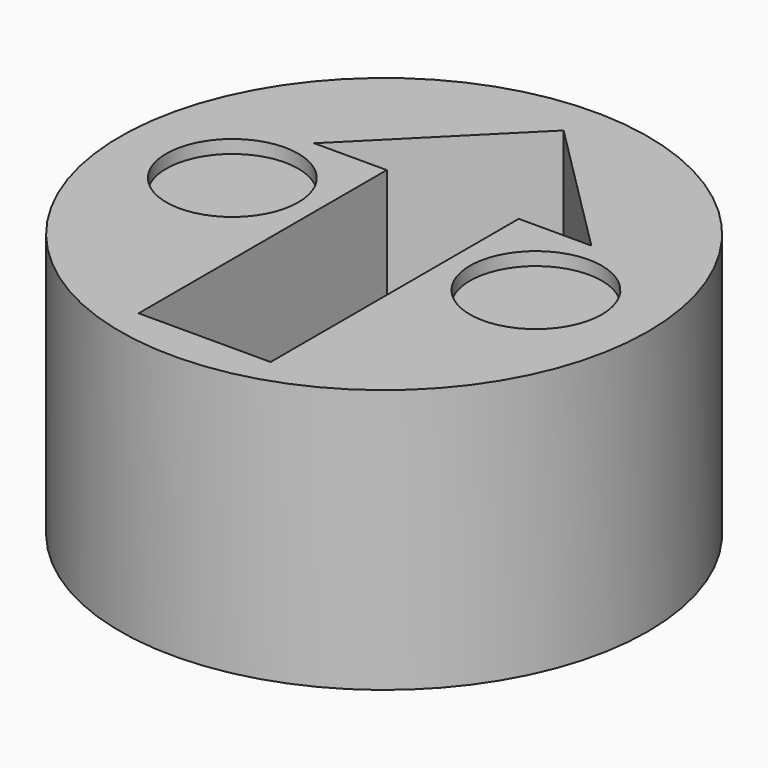
from build123d import *

# Parameters (mm, degrees)
SKETCH004_R     = 2
PAD001_DEPTH    = 2
POCKET001_DEPTH = 1.5
SKETCH005_R     = 0.5
POCKET002_DEPTH = 0.1


with BuildPart() as part:
    # Sketch004 → Pad001 (new body)
    with BuildSketch(Plane.XY.offset(2.5)):
        with Locations((5, 5)):
            Circle(SKETCH004_R)
    extrude(amount=PAD001_DEPTH)

    # Sketch003 (on Face3 of Pad001) → Pocket001 (cut)
    with BuildSketch(Plane.XY.offset(4.5)):
        Polygon((4.5, 3.3), (4.5, 5.65), (3.95, 5.65), (5, 6.7), (6.05, 5.65), (5.5, 5.65), (5.5, 3.3), align=None)
    extrude(amount=-POCKET001_DEPTH, mode=Mode.SUBTRACT)

    # Sketch005 (on Face3 of Pocket001) → Pocket002 (cut)
    with BuildSketch(Plane.XY.offset(4.5)):
        with Locations((3.85, 5)):
            Circle(SKETCH005_R)
        with Locations((6.15, 5)):
            Circle(SKETCH005_R)
    extrude(amount=-POCKET002_DEPTH, mode=Mode.SUBTRACT)


solid = part.part
